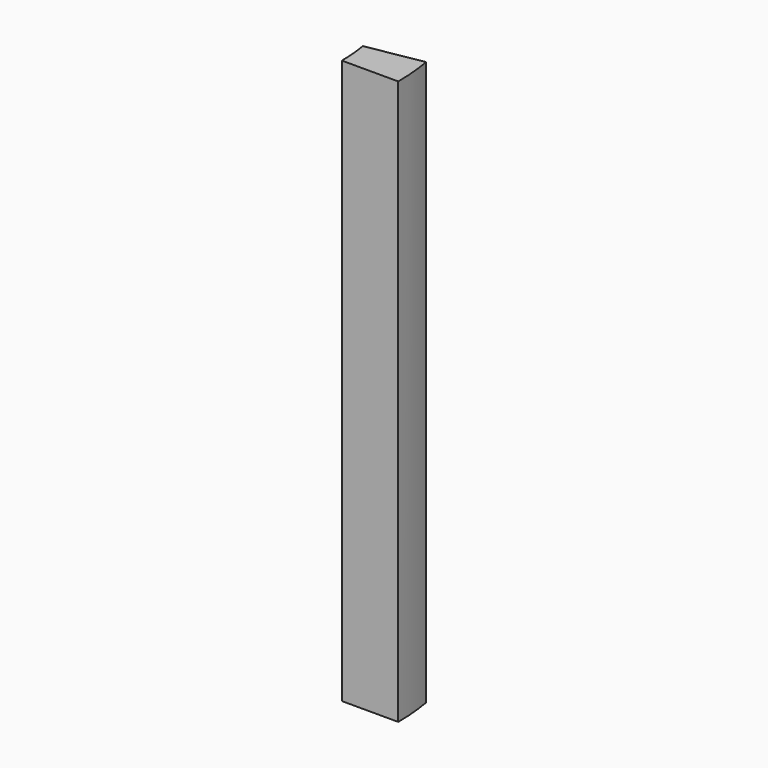
from build123d import *

# Parameters (mm, degrees)
F0_W     = 5
F0_H     = 10
F1_ANGLE = 10


with BuildPart() as f1:
    # F0 (on Front) → F1 (revolve)
    with BuildSketch(Plane.XZ):
        with Locations((17.5, 5)):
            Rectangle(F0_W, F0_H)
        with Locations((17.5, 15)):
            Rectangle(F0_W, F0_H)
        with Locations((17.5, 25)):
            Rectangle(F0_W, F0_H)
        with Locations((17.5, 35)):
            Rectangle(F0_W, F0_H)
        with Locations((17.5, 45)):
            Rectangle(F0_W, F0_H)
    revolve(axis=Axis((0, 0, 25), (0, 0, 1)), revolution_arc=F1_ANGLE)


solid = f1.part
